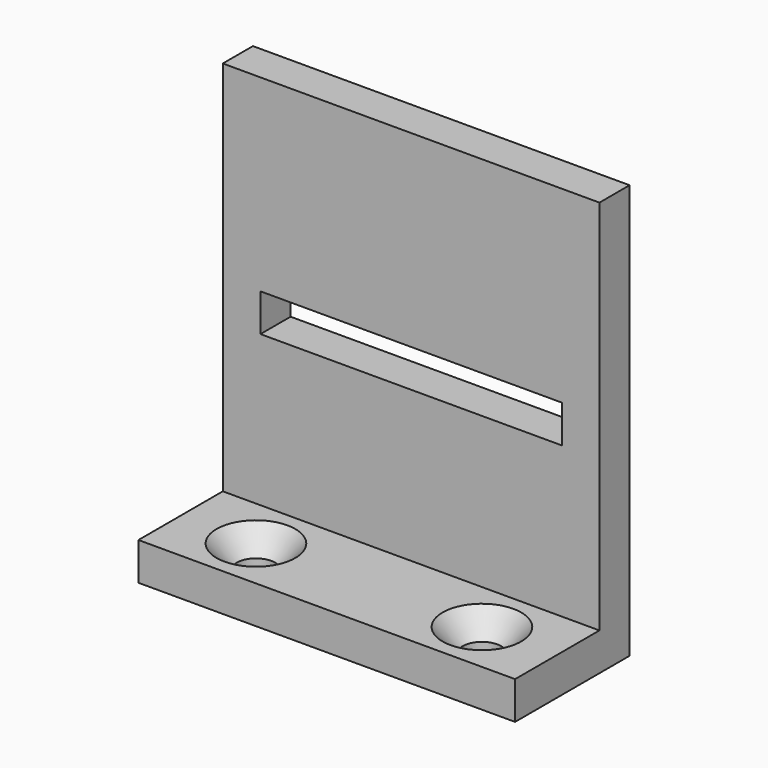
from build123d import *

# Parameters (mm, degrees)
F0_W           = 30
F0_H           = 15
F1_DEPTH       = 5
F2_W           = 30
F2_H           = 5
F3_DEPTH       = 50
F4_DEPTH       = 10
F5_DEPTH       = 10
F6_DEPTH       = 4
F8_D           = 5.1054
F8_DEPTH       = 10
F8_CSINK_D     = 10.4394
F8_CSINK_ANGLE = 82
F8_TIP         = 1.5338169022
F9_W           = 40
F9_H           = 5
F10_DEPTH      = 19.001


with BuildPart() as f1:
    # F0 (on Top) → F1 (new body)
    with BuildSketch(Plane.XY):
        Rectangle(F0_W, F0_H)
    extrude(amount=F1_DEPTH)

    # F2 (on face) → F3 (join)
    with BuildSketch(Plane.XY.offset(5)):
        with Locations((0, 5)):
            Rectangle(F2_W, F2_H)
    extrude(amount=F3_DEPTH)

    # F4 (add): a face of the model
    f4_faces = [f1.faces().sort_by_distance(p)[0] for p in [
        (-15, 3.8461538462, 23.6538461538),
    ]]
    extrude(f4_faces, amount=F4_DEPTH)

    # F5 (add): a face of the model
    f5_faces = [f1.faces().sort_by_distance(p)[0] for p in [
        (15, 3.8461538462, 23.6538461538),
    ]]
    extrude(f5_faces, amount=F5_DEPTH)

    # F6 (add): a face of the model
    f6_faces = [f1.faces().sort_by_distance(p)[0] for p in [
        (0, -7.5, 2.5),
    ]]
    extrude(f6_faces, amount=F6_DEPTH)

    # F8
    with Locations(Plane.XY.offset(5)):
        with Locations((15, -4.5), (-15, -4.5)):
            CounterSinkHole(F8_D / 2, F8_CSINK_D / 2, depth=F8_DEPTH, counter_sink_angle=F8_CSINK_ANGLE)
            with Locations((0, 0, -(F8_DEPTH + F8_TIP / 2))):  # 118° drill point
                Cone(0, F8_D / 2, F8_TIP, mode=Mode.SUBTRACT)

    # F9 (on face) → F10 (cut, through all)
    with BuildSketch(Plane(origin=(0, 7.5, 0), x_dir=(-1, 0, 0), z_dir=(0, 1, 0))):
        with Locations((0, 27.5)):
            Rectangle(F9_W, F9_H)
    extrude(amount=-F10_DEPTH, mode=Mode.SUBTRACT)


solid = f1.part
